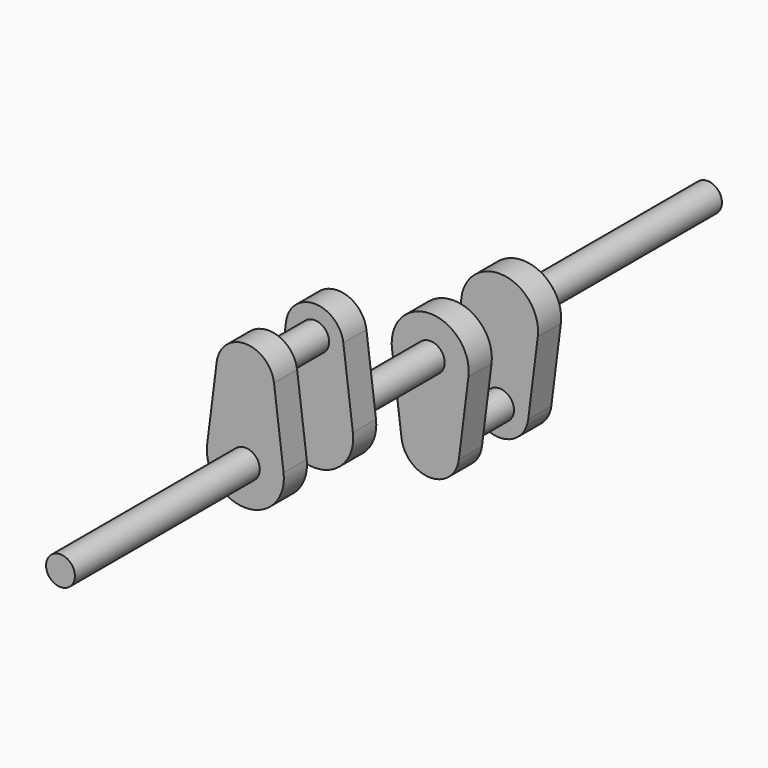
from build123d import *

# Parameters (mm, degrees)
F0_R      = 9.525
F1_DEPTH  = 152.4
F2_R      = 9.525
F3_DEPTH  = 19.05
F4_R      = 9.525
F5_DEPTH  = 38.1
F7_DEPTH  = 19.05
F8_R      = 9.525
F9_DEPTH  = 76.2
F11_DEPTH = 19.05
F12_R     = 9.525
F13_DEPTH = 38.1
F15_DEPTH = 19.05
F16_R     = 9.525
F17_DEPTH = 152.4


with BuildPart() as f1:
    # F0 (on Front) → F1 (new body)
    with BuildSketch(Plane.XZ):
        Circle(F0_R)
    extrude(amount=F1_DEPTH)

    # F2 (on face) → F3 (join)
    with BuildSketch(Plane(origin=(0, 0, 0), x_dir=(-1, 0, 0), z_dir=(0, 1, 0))):
        with BuildLine():
            ThreePointArc((-18.9005859708, 53.1812496635), (-1.1929663147, 31.7873902009), (19.05, 50.8))
            ThreePointArc((19.05, 50.8), (19.012609793, 51.992966411), (18.9005859467, 53.1812498549))
            ThreePointArc((18.9005859467, 53.1812498549), (-9.64e-08, 69.85), (-18.9005859708, 53.1812496635))
        make_face()
        with Locations((0, 50.8)):
            Circle(F2_R, mode=Mode.SUBTRACT)
        with BuildLine():
            ThreePointArc((18.9005859467, 53.1812498549), (19.012609793, 51.992966411), (19.05, 50.8))
            ThreePointArc((19.05, 50.8), (-1.1929663147, 31.7873902009), (-18.9005859708, 53.1812496635))
            Line((-18.9005859708, 53.1812496635), (-25.2007812071, 3.1750002442))
            ThreePointArc((-25.2007812071, 3.1750002442), (2.614e-07, 25.4), (25.2007812725, 3.1749997256))
            Line((25.2007812725, 3.1749997256), (18.9005859467, 53.1812498549))
        make_face()
        with BuildLine():
            ThreePointArc((25.4, 0), (25.3501463933, 1.5906218406), (25.2007812725, 3.1749997256))
            ThreePointArc((25.2007812725, 3.1749997256), (2.614e-07, 25.4), (-25.2007812071, 3.1750002442))
            ThreePointArc((-25.2007812071, 3.1750002442), (-1.5906221014, -25.3501463769), (25.4, 0))
        make_face()
        with Locations((0, 50.8)):
            Circle(F2_R)
    extrude(amount=F3_DEPTH)

    # F4 (on face) → F5 (join)
    with BuildSketch(Plane(origin=(0, 19.05, 0), x_dir=(-1, 0, 0), z_dir=(0, 1, 0))):
        with Locations((0, 50.8)):
            Circle(F4_R)
    extrude(amount=F5_DEPTH)

    # F6 (on face) → F7 (join)
    with BuildSketch(Plane(origin=(0, 57.15, 0), x_dir=(-1, 0, 0), z_dir=(0, 1, 0))):
        with BuildLine():
            ThreePointArc((-18.9005859708, 53.1812496635), (-1.1929663147, 31.7873902009), (19.05, 50.8))
            ThreePointArc((19.05, 50.8), (19.0126097893, 51.9929664704), (18.9005859318, 53.1812499732))
            ThreePointArc((18.9005859318, 53.1812499732), (-1.561e-07, 69.85), (-18.9005859708, 53.1812496635))
        make_face()
        with BuildLine():
            ThreePointArc((18.9005859318, 53.1812499732), (19.0126097893, 51.9929664704), (19.05, 50.8))
            ThreePointArc((19.05, 50.8), (-1.1929663147, 31.7873902009), (-18.9005859708, 53.1812496635))
            Line((-18.9005859708, 53.1812496635), (-25.200781271, 3.1749997374))
            ThreePointArc((-25.200781271, 3.1749997374), (-1.19e-07, 25.4), (25.2007812412, 3.1749999736))
            Line((25.2007812412, 3.1749999736), (18.9005859318, 53.1812499732))
        make_face()
        with BuildLine():
            ThreePointArc((25.4, 0), (25.3501463854, 1.5906219653), (25.2007812412, 3.1749999736))
            ThreePointArc((25.2007812412, 3.1749999736), (-1.19e-07, 25.4), (-25.200781271, 3.1749997374))
            ThreePointArc((-25.200781271, 3.1749997374), (-1.5906218465, -25.3501463929), (25.4, 0))
        make_face()
    extrude(amount=F7_DEPTH)

    # F8 (on face) → F9 (join)
    with BuildSketch(Plane(origin=(0, 76.2, 0), x_dir=(-1, 0, 0), z_dir=(0, 1, 0))):
        Circle(F8_R)
    extrude(amount=F9_DEPTH)

    # F10 (on face) → F11 (join)
    with BuildSketch(Plane(origin=(0, 152.4, 0), x_dir=(-1, 0, 0), z_dir=(0, 1, 0))):
        with BuildLine():
            ThreePointArc((25.2007812725, -3.1749997255), (25.3501463933, -1.5906218405), (25.4, 0))
            ThreePointArc((25.4, 0), (-1.5906219941, 25.3501463836), (-25.200781234, -3.1750000308))
            ThreePointArc((-25.200781234, -3.1750000308), (1.539e-07, -25.4), (25.2007812725, -3.1749997255))
        make_face()
        with BuildLine():
            ThreePointArc((25.2007812725, -3.1749997255), (1.539e-07, -25.4), (-25.200781234, -3.1750000308))
            Line((-25.200781234, -3.1750000308), (-18.9005859708, -53.1812496635))
            ThreePointArc((-18.9005859708, -53.1812496635), (-1.1929663147, -31.7873902009), (19.05, -50.8))
            ThreePointArc((19.05, -50.8), (19.012609782, -51.9929665866), (18.9005859027, -53.1812502041))
            Line((18.9005859027, -53.1812502041), (25.2007812725, -3.1749997255))
        make_face()
        with BuildLine():
            ThreePointArc((19.05, -50.8), (-1.1929663147, -31.7873902009), (-18.9005859708, -53.1812496635))
            ThreePointArc((-18.9005859708, -53.1812496635), (-2.724e-07, -69.85), (18.9005859027, -53.1812502041))
            ThreePointArc((18.9005859027, -53.1812502041), (19.012609782, -51.9929665866), (19.05, -50.8))
        make_face()
    extrude(amount=F11_DEPTH)

    # F12 (on face) → F13 (join)
    with BuildSketch(Plane(origin=(0, 171.45, 0), x_dir=(-1, 0, 0), z_dir=(0, 1, 0))):
        with Locations((0, -50.8)):
            Circle(F12_R)
    extrude(amount=F13_DEPTH)

    # F14 (on face) → F15 (join)
    with BuildSketch(Plane(origin=(0, 209.55, 0), x_dir=(-1, 0, 0), z_dir=(0, 1, 0))):
        with BuildLine():
            ThreePointArc((18.900585933, -53.1812499633), (19.0126097896, -51.9929664655), (19.05, -50.8))
            ThreePointArc((19.05, -50.8), (-1.1929664809, -31.7873902114), (-18.9005859292, -53.1812499939))
            ThreePointArc((-18.9005859292, -53.1812499939), (1.54e-08, -69.85), (18.900585933, -53.1812499633))
        make_face()
        with BuildLine():
            ThreePointArc((-18.9005859292, -53.1812499939), (-1.1929664809, -31.7873902114), (19.05, -50.8))
            ThreePointArc((19.05, -50.8), (19.0126097896, -51.9929664655), (18.900585933, -53.1812499633))
            Line((18.900585933, -53.1812499633), (25.2007812062, -3.1750002518))
            ThreePointArc((25.2007812062, -3.1750002518), (2.227e-07, -25.4), (-25.2007811505, -3.1750006937))
            Line((-25.2007811505, -3.1750006937), (-18.9005859292, -53.1812499939))
        make_face()
        with BuildLine():
            ThreePointArc((25.4, 0), (-1.5906223275, 25.3501463627), (-25.2007811505, -3.1750006937))
            ThreePointArc((-25.2007811505, -3.1750006937), (2.227e-07, -25.4), (25.2007812062, -3.1750002518))
            ThreePointArc((25.2007812062, -3.1750002518), (25.3501463767, -1.5906221053), (25.4, 0))
        make_face()
    extrude(amount=F15_DEPTH)

    # F16 (on face) → F17 (join)
    with BuildSketch(Plane(origin=(0, 228.6, 0), x_dir=(-1, 0, 0), z_dir=(0, 1, 0))):
        Circle(F16_R)
    extrude(amount=F17_DEPTH)


solid = f1.part
